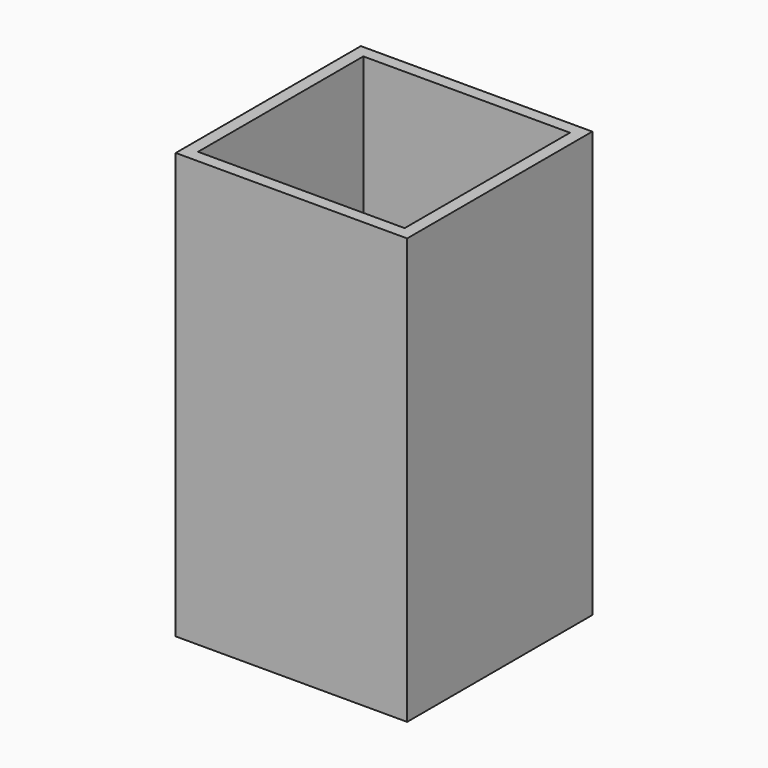
from build123d import *

# Parameters (mm, degrees)
F2_W     = 56
F2_H     = 56
F2_W_2   = 50
F2_H_2   = 50
F3_DEPTH = 100
F4_DEPTH = 3
F5_W     = 20
F5_H     = 20
F6_DEPTH = 3
F7_W     = 3
F7_H     = 25
F8_DEPTH = 3


with BuildPart() as f3:
    # F2 (on Top) → F3 (new body)
    with BuildSketch(Plane.XY):
        with Locations((28, 28)):
            Rectangle(F2_W, F2_H)
        with Locations((28, 28)):
            Rectangle(F2_W_2, F2_H_2, mode=Mode.SUBTRACT)
    extrude(amount=F3_DEPTH)

    # F2 (on Top) → F4 (join)
    with BuildSketch(Plane.XY):
        with Locations((28, 28)):
            Rectangle(F2_W, F2_H)
        with Locations((28, 28)):
            Rectangle(F2_W_2, F2_H_2, mode=Mode.SUBTRACT)
        with Locations((28, 28)):
            Rectangle(F2_W_2, F2_H_2)
    extrude(amount=-F4_DEPTH)

    # F5 (on face) → F6 (cut, through all)
    with BuildSketch(Plane.XY):
        with Locations((13, 13)):
            Rectangle(F5_W, F5_H)
    extrude(amount=-F6_DEPTH, mode=Mode.SUBTRACT)

    # F7 (on face) → F8 (cut, through all)
    with BuildSketch(Plane(origin=(0, 56, 0), x_dir=(-1, 0, 0), z_dir=(0, 1, 0))):
        with Locations((-47.5, 48.5)):
            Rectangle(F7_W, F7_H)
        with Locations((-8.5, 48.5)):
            Rectangle(F7_W, F7_H)
    extrude(amount=-F8_DEPTH, mode=Mode.SUBTRACT)


solid = f3.part
